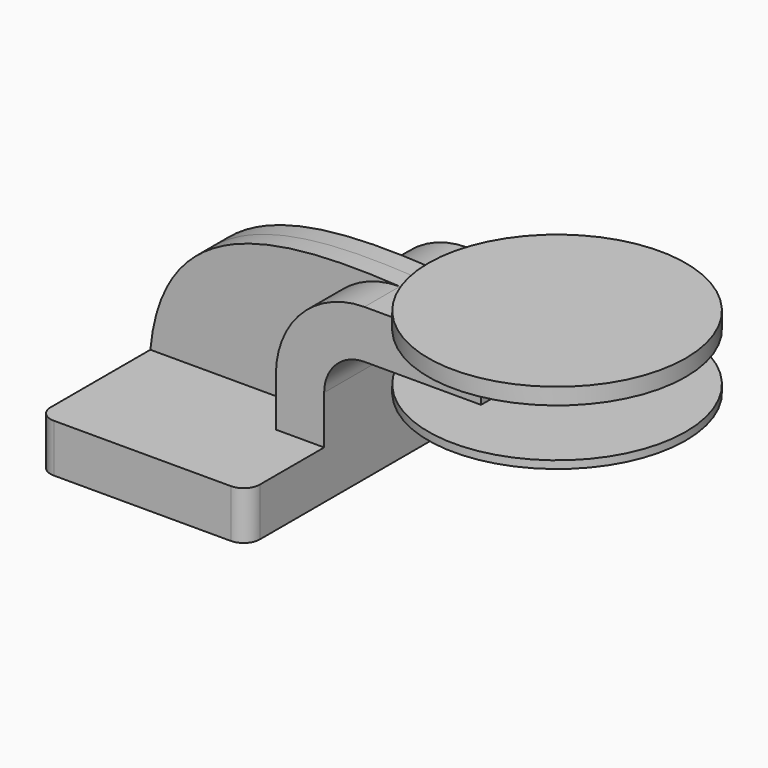
from build123d import *

# Parameters (mm, degrees)
F1_DEPTH = 63.5
F0_W     = 41.1148486172
F0_H     = 19.05
F2_DEPTH = 25.4
F3_DEPTH = 7.9375
F5_R     = 6.35


with BuildPart() as f1:
    # F0 (on Front) → F1 (new body, symmetric)
    with BuildSketch(Plane.XZ):
        Polygon((-41.275, 9.525), (-41.275, -9.525), (41.275, -9.525), (41.275, 9.525), (22.225, 9.525), align=None)
    extrude(amount=F1_DEPTH, both=True)

    # F0 (on Front) → F2 (join, symmetric)
    with BuildSketch(Plane.XZ):
        with BuildLine():
            Line((22.225, 9.525), (41.275, 9.525))
            Line((41.275, 9.525), (41.275, 28.575))
            ThreePointArc((41.275, 28.575), (45.9246798487, 39.8003201513), (57.15, 44.45))
            Line((57.15, 44.45), (62.0568133146, 44.45))
            Line((62.0568133146, 44.45), (62.0568133146, 63.5))
            Line((62.0568133146, 63.5), (57.15, 63.5))
            ThreePointArc((57.15, 63.5), (32.4542956671, 53.2707043329), (22.225, 28.575))
            Line((22.225, 28.575), (22.225, 9.525))
        make_face()
        with Locations((82.6142376232, 53.975)):
            Rectangle(F0_W, F0_H)
    extrude(amount=F2_DEPTH, both=True)

    # F0 (on Front) → F3 (join, symmetric)
    with BuildSketch(Plane.XZ):
        with BuildLine():
            add(Edge.make_bspline(
                [(-41.275, 9.525), (-36.3353202119, 62.5270418823), (11.9270985628, 66.0983518143), (57.15, 63.5)],
                knots=[0, 0, 0, 0, 112.2532015134, 112.2532015134, 112.2532015134, 112.2532015134], degree=3))
            Line((-41.275, 9.525), (22.225, 9.525))
            Line((22.225, 9.525), (22.225, 28.575))
            ThreePointArc((22.225, 28.575), (32.4542956671, 53.2707043329), (57.15, 63.5))
        make_face()
    extrude(amount=F3_DEPTH, both=True)

    # F5
    f5_edges = [f1.edges().sort_by_distance(p)[0] for p in [
        (41.275, -63.5, 0),
        (-41.275, -63.5, 0),
        (41.275, 63.5, 0),
        (-41.275, 63.5, 0),
    ]]
    fillet(f5_edges, radius=F5_R)


with BuildPart() as f4:
    # F0 (on Front) → F4 (revolve)
    with BuildSketch(Plane.XZ):
        Polygon((62.0568133146, 69.9943239679), (62.0568133146, 63.5), (103.1716619318, 63.5), (103.1716619318, 44.45), (62.0568133146, 44.45), (62.0568133146, 41.4193239679), (112.8568133146, 41.4193239679), (112.8568133146, 69.9943239679), align=None)
    revolve(axis=Axis((112.8568133146, 0, 55.7068239679), (0, 0, 1)))


solid = Compound([f1.part, f4.part])
